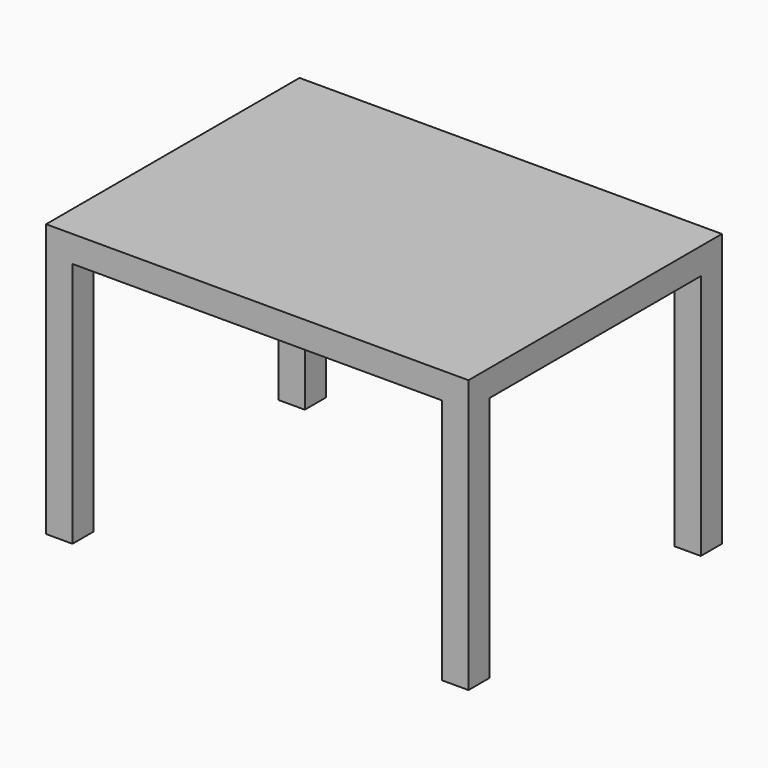
from build123d import *

# Parameters (mm, degrees)
F0_W     = 1219.2
F0_H     = 914.4
F1_DEPTH = 787.4
F3_DEPTH = 711.2


with BuildPart() as f1:
    # F0 (on Top) → F1 (new body)
    with BuildSketch(Plane.XY):
        Rectangle(F0_W, F0_H)
    extrude(amount=F1_DEPTH)

    # F2 (on face) → F3 (cut)
    with BuildSketch(Plane(origin=(0, 0, 0), x_dir=(1, 0, 0), z_dir=(0, 0, -1))):
        Polygon((533.4, 457.2), (-533.4, 457.2), (-533.4, 381), (-609.6, 381), (-609.6, -381), (-533.4, -381), (-533.4, -457.2), (533.4, -457.2), (533.4, -381), (609.6, -381), (609.6, 381), (533.4, 381), align=None)
    extrude(amount=-F3_DEPTH, mode=Mode.SUBTRACT)


solid = f1.part
